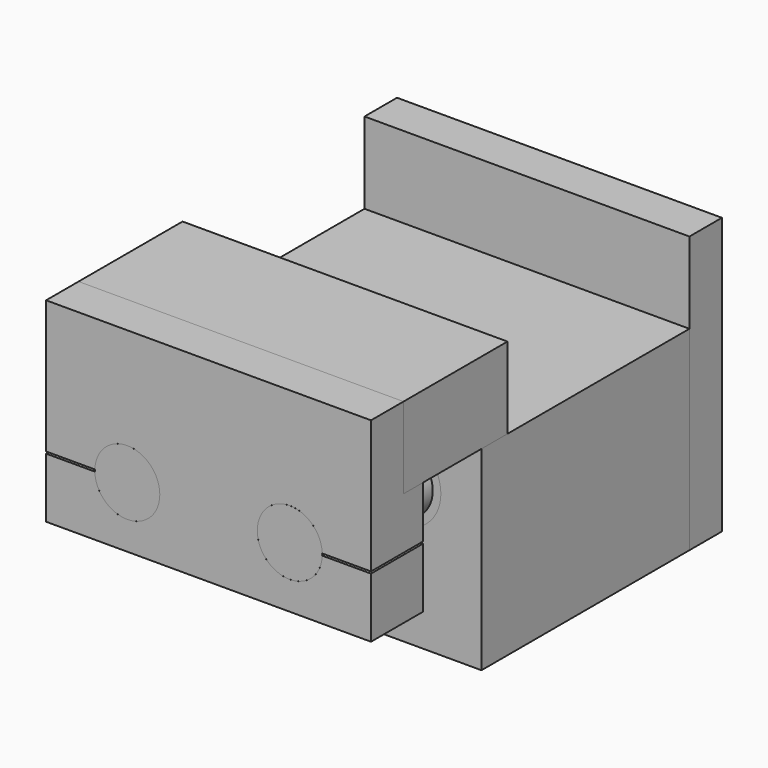
from build123d import *

# Parameters (mm, degrees)
F0_W           = 127
F0_H           = 76.2
F0_R           = 25.4
F0_R_2         = 15.875
F1_DEPTH       = 101.6
F2_DEPTH       = 50.8
F3_R           = 15.875
F3_R_2         = 12.7
F4_DEPTH       = 50.8
F5_R           = 25.796875
F5_R_2         = 25.4
F6_DEPTH       = 50.8
F6_DEPTH_BACK  = 12.7
F7_W           = 127
F7_H           = 107.95
F7_R           = 25.796875
F8_DEPTH       = 15.875
F9_R           = 25.796875
F10_DEPTH      = 3.175
F11_R          = 12.7
F12_DEPTH      = 53.975
F12_DEPTH_BACK = 50.8
F13_W          = 127
F13_H          = 31.75
F14_DEPTH      = 15.875
F15_R          = 3.96875
F16_DEPTH      = 25.4
F16_DEPTH_BACK = 25.4
F17_DEPTH      = 25.4
F18_DEPTH      = 50.8


with BuildPart() as f1:
    # F0 (on Front) → F1 (new body)
    with BuildSketch(Plane.XZ):
        with Locations((63.5, 38.1)):
            Rectangle(F0_W, F0_H)
        with Locations((31.75, 47.625)):
            Circle(F0_R, mode=Mode.SUBTRACT)
        with Locations((95.25, 47.625)):
            Circle(F0_R, mode=Mode.SUBTRACT)
        with Locations((31.75, 47.625)):
            Circle(F0_R)
        with Locations((31.75, 55.5625)):
            Circle(F0_R_2, mode=Mode.SUBTRACT)
        with Locations((95.25, 47.625)):
            Circle(F0_R)
        with Locations((95.25, 55.5625)):
            Circle(F0_R_2, mode=Mode.SUBTRACT)
    extrude(amount=F1_DEPTH)

    # F0 (on Front) → F2 (cut)
    with BuildSketch(Plane.XZ):
        with Locations((31.75, 47.625)):
            Circle(F0_R)
        with Locations((31.75, 55.5625)):
            Circle(F0_R_2, mode=Mode.SUBTRACT)
        with Locations((95.25, 47.625)):
            Circle(F0_R)
        with Locations((95.25, 55.5625)):
            Circle(F0_R_2, mode=Mode.SUBTRACT)
        with Locations((95.25, 55.5625)):
            Circle(F0_R_2)
        with Locations((31.75, 55.5625)):
            Circle(F0_R_2)
    extrude(amount=F2_DEPTH, mode=Mode.SUBTRACT)


with BuildPart() as f4:
    # F3 (on face) → F4 (new body)
    with BuildSketch(Plane.XZ.offset(101.6)):
        with Locations((31.75, 55.5625)):
            Circle(F3_R)
        with Locations((31.75, 55.5625)):
            Circle(F3_R_2, mode=Mode.SUBTRACT)
    extrude(amount=-F4_DEPTH)


with BuildPart() as f4b:
    # F3 (on face) → F4, piece 2 (new body)
    with BuildSketch(Plane.XZ.offset(101.6)):
        with Locations((95.25, 55.5625)):
            Circle(F3_R)
        with Locations((95.25, 55.5625)):
            Circle(F3_R_2, mode=Mode.SUBTRACT)
    extrude(amount=-F4_DEPTH)


with BuildPart() as f6:
    # F5 (on face) → F6 (new body, two sides)
    with BuildSketch(Plane.XZ) as f6_sk:
        with Locations((95.25, 47.625)):
            Circle(F5_R)
        with Locations((95.25, 47.625)):
            Circle(F5_R_2, mode=Mode.SUBTRACT)
    extrude(amount=F6_DEPTH)
    extrude(f6_sk.sketch, amount=-F6_DEPTH_BACK)


with BuildPart() as f6b:
    # F5 (on face) → F6, piece 2 (new body, two sides)
    with BuildSketch(Plane.XZ) as f6_2_sk:
        with Locations((31.75, 47.625)):
            Circle(F5_R)
        with Locations((31.75, 47.625)):
            Circle(F5_R_2, mode=Mode.SUBTRACT)
    extrude(amount=F6_DEPTH)
    extrude(f6_2_sk.sketch, amount=-F6_DEPTH_BACK)


with BuildPart() as f8:
    # F7 (on face) → F8 (new body)
    with BuildSketch(Plane.XZ):
        with Locations((63.5, 53.975)):
            Rectangle(F7_W, F7_H)
        with Locations((31.75, 47.625)):
            Circle(F7_R, mode=Mode.SUBTRACT)
        with Locations((95.25, 47.625)):
            Circle(F7_R, mode=Mode.SUBTRACT)
    extrude(amount=-F8_DEPTH)

    # F9 (on face) → F10 (join)
    with BuildSketch(Plane(origin=(0, 15.875, 0), x_dir=(-1, 0, 0), z_dir=(0, 1, 0))):
        with Locations((-95.25, 47.625)):
            Circle(F9_R)
        with Locations((-31.75, 47.625)):
            Circle(F9_R)
    extrude(amount=-F10_DEPTH)


with BuildPart() as f12:
    # F11 (on face) → F12 (new body, two sides)
    with BuildSketch(Plane.XZ.offset(101.6)) as f12_sk:
        with Locations((31.75, 55.5625)):
            Circle(F11_R)
    extrude(amount=F12_DEPTH)
    extrude(f12_sk.sketch, amount=-F12_DEPTH_BACK)


with BuildPart() as f12b:
    # F11 (on face) → F12, piece 2 (new body, two sides)
    with BuildSketch(Plane.XZ.offset(101.6)) as f12_2_sk:
        with Locations((95.25, 55.5625)):
            Circle(F11_R)
    extrude(amount=F12_DEPTH)
    extrude(f12_2_sk.sketch, amount=-F12_DEPTH_BACK)


with BuildPart() as f14:
    # F13 (on face) → F14 (new body)
    with BuildSketch(Plane.XZ.offset(155.575)):
        with Locations((63.5, 92.075)):
            Rectangle(F13_W, F13_H)
        with BuildLine():
            Line((127, 76.2), (0, 76.2))
            Line((0, 76.2), (0, 55.9435))
            Line((0, 55.9435), (19.0557162865, 55.9435))
            ThreePointArc((19.0557162865, 55.9435), (44.45, 55.5625), (19.0557162865, 55.1815))
            Line((19.0557162865, 55.1815), (0, 55.1815))
            Line((0, 55.1815), (0, 31.75))
            Line((0, 31.75), (127, 31.75))
            Line((127, 31.75), (127, 55.1815))
            Line((127, 55.1815), (107.9442837135, 55.1815))
            ThreePointArc((107.9442837135, 55.1815), (82.55, 55.5625), (107.9442837135, 55.9435))
            Line((107.9442837135, 55.9435), (127, 55.9435))
            Line((127, 55.9435), (127, 76.2))
        make_face()
    extrude(amount=-F14_DEPTH)

    # F13 (on face) → F17 (join)
    with BuildSketch(Plane.XZ.offset(155.575)):
        with BuildLine():
            Line((127, 76.2), (0, 76.2))
            Line((0, 76.2), (0, 55.9435))
            Line((0, 55.9435), (19.0557162865, 55.9435))
            ThreePointArc((19.0557162865, 55.9435), (31.9405214397, 68.261070848), (44.45, 55.5625))
            ThreePointArc((44.45, 55.5625), (31.9405214397, 42.863929152), (19.0557162865, 55.1815))
            Line((19.0557162865, 55.1815), (0, 55.1815))
            Line((0, 55.1815), (0, 31.75))
            Line((0, 31.75), (127, 31.75))
            Line((127, 31.75), (127, 55.1815))
            Line((127, 55.1815), (107.9442837135, 55.1815))
            ThreePointArc((107.9442837135, 55.1815), (82.55, 55.5625), (107.9442837135, 55.9435))
            Line((107.9442837135, 55.9435), (127, 55.9435))
            Line((127, 55.9435), (127, 76.2))
        make_face()
    extrude(amount=-F17_DEPTH)


with BuildPart() as f16_tool:
    # F15 (on face) → F16 (new body, two sides)
    with BuildSketch(Plane.XZ) as f16_sk:
        with Locations((119.0625, 68.2625)):
            Circle(F15_R)
        with Locations((7.9375, 68.2625)):
            Circle(F15_R)
        with Locations((119.0625, 7.9375)):
            Circle(F15_R)
        with Locations((7.9375, 7.9375)):
            Circle(F15_R)
        with Locations((63.5, 68.2625)):
            Circle(F15_R)
    extrude(amount=-F16_DEPTH)
    extrude(f16_sk.sketch, amount=F16_DEPTH_BACK)


with BuildPart() as f1_1:
    add(f1.part)

    # F16: cut by f16_tool
    add(f16_tool.part, mode=Mode.SUBTRACT)


with BuildPart() as f8_1:
    add(f8.part)

    # F16: cut by f16_tool
    add(f16_tool.part, mode=Mode.SUBTRACT)


with BuildPart() as f18:
    # F18 (new): a face of the model
    f18_faces = [f14.part.faces().sort_by_distance(p)[0] for p in [
        (63.5, -139.7, 92.075),
    ]]
    extrude(f18_faces, amount=F18_DEPTH)


solid = Compound([f4.part, f4b.part, f6.part, f6b.part, f12.part, f12b.part, f14.part, f1_1.part, f8_1.part, f18.part])
